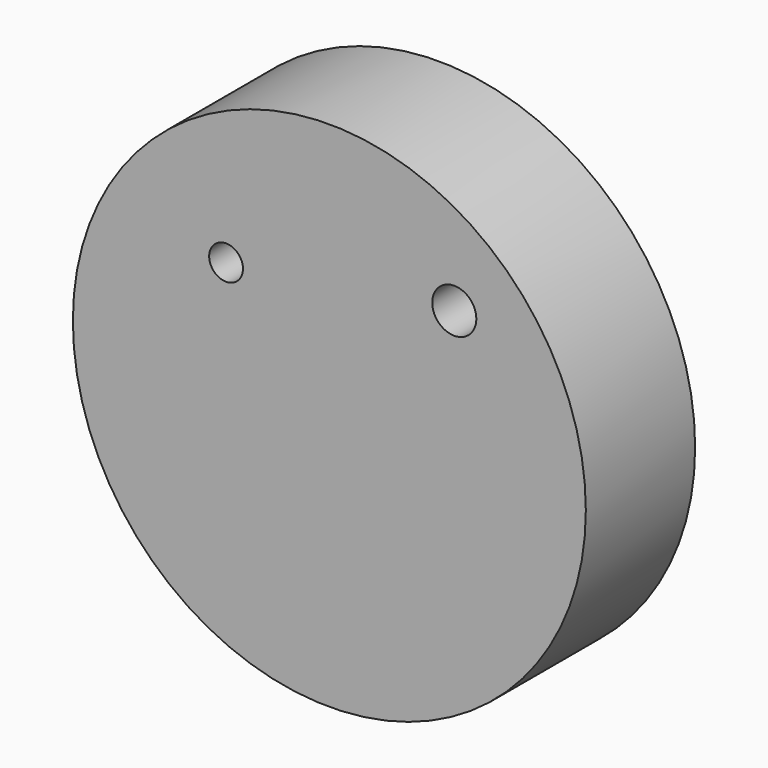
from build123d import *

# Parameters (mm, degrees)
F1_R     = 47.679648
F1_R_2   = 3.142594
F1_R_3   = 4.098319
F2_DEPTH = 25.4


with BuildPart() as f2:
    # F1 (on face) → F2 (new body)
    with BuildSketch(Plane.XZ):
        with Locations((0, 7.651963)):
            Circle(F1_R)
        with Locations((-19.19703, 26.446259)):
            Circle(F1_R_2, mode=Mode.SUBTRACT)
        with Locations((23.224378, 32.353036)):
            Circle(F1_R_3, mode=Mode.SUBTRACT)
    extrude(amount=F2_DEPTH)


solid = f2.part
